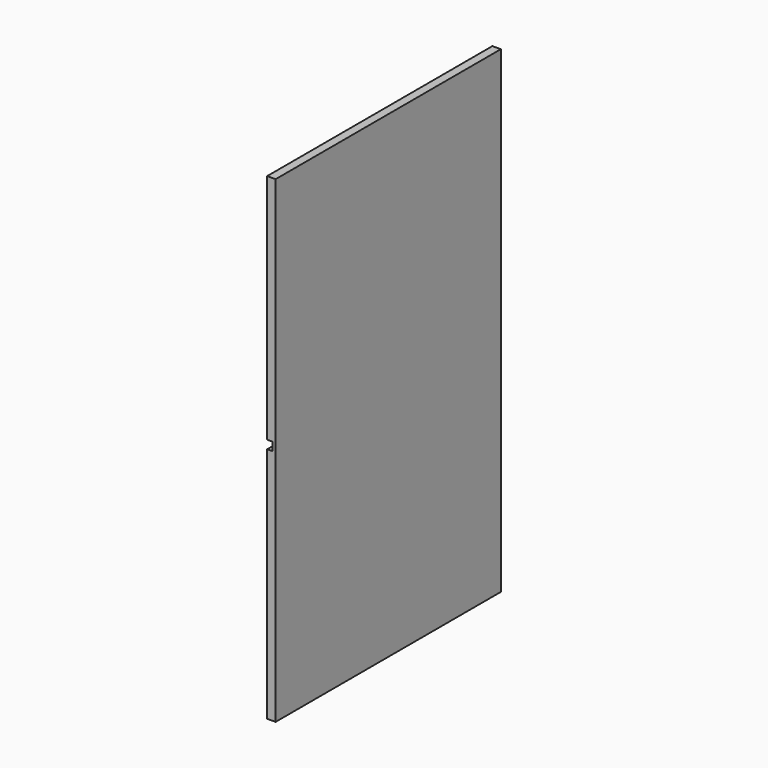
from build123d import *

# Parameters (mm, degrees)
F0_W     = 535
F0_H     = 441
F0_H_2   = 16
F0_H_3   = 435
F1_DEPTH = 16
F2_DEPTH = 10


with BuildPart() as f1:
    # F0 (on Right) → F1 (new body)
    with BuildSketch(Plane.YZ):
        with Locations((-9.930879, 399.743524)):
            Rectangle(F0_W, F0_H)
        with Locations((-9.930879, 171.243524)):
            Rectangle(F0_W, F0_H_2)
        with Locations((-9.930879, -54.256476)):
            Rectangle(F0_W, F0_H_3)
        with Locations((-9.930879, -279.756476)):
            Rectangle(F0_W, F0_H_2)
    extrude(amount=F1_DEPTH)

    # F0 (on Right) → F2 (cut)
    with BuildSketch(Plane.YZ):
        with Locations((-9.930879, 171.243524)):
            Rectangle(F0_W, F0_H_2)
    extrude(amount=F2_DEPTH, mode=Mode.SUBTRACT)


solid = f1.part
